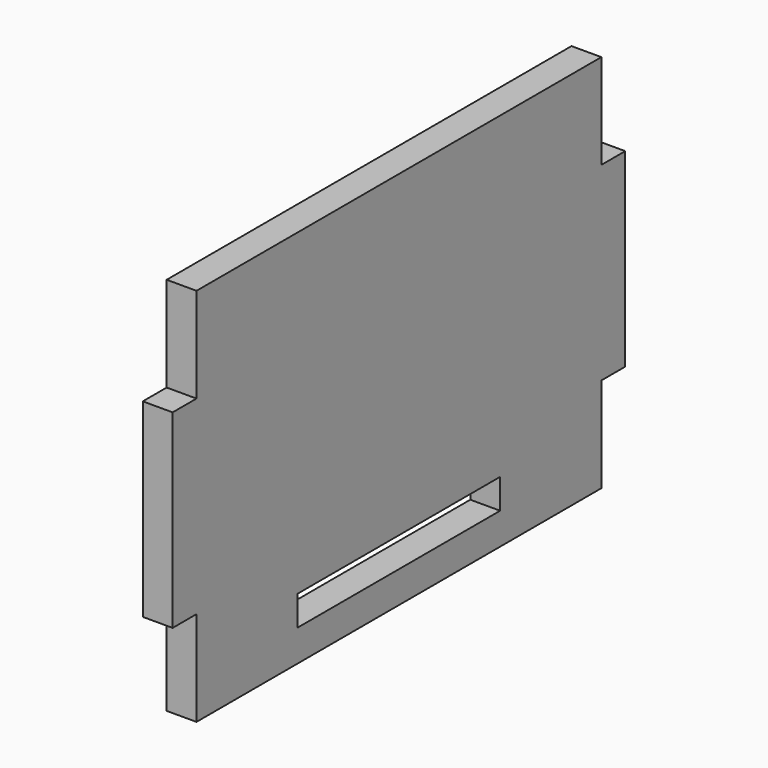
from build123d import *

# Parameters (mm, degrees)
F1_DEPTH = 2.9972


with BuildPart() as f1:
    # F0 (on Right) → F1 (new body)
    with BuildSketch(Plane.YZ):
        Polygon((-25.4, 9.525), (-28.3972, 9.525), (-28.3972, -9.525), (-25.4, -9.525), (-25.4, -19.05), (0, -19.05), (25.4, -19.05), (25.4, -9.525), (28.3972, -9.525), (28.3972, 9.525), (25.4, 9.525), (25.4, 19.05), (0, 19.05), (-25.4, 19.05), align=None)
        Polygon((-12.7, -12.8778), (0, -12.8778), (12.7, -12.8778), (12.7, -15.875), (0, -15.875), (-12.7, -15.875), align=None, mode=Mode.SUBTRACT)
    extrude(amount=F1_DEPTH)


solid = f1.part
